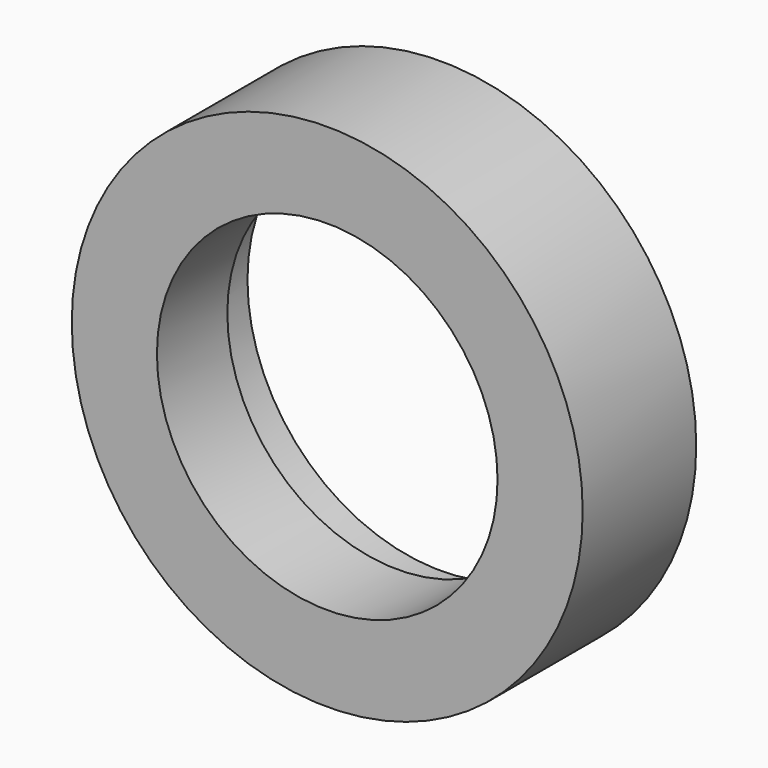
from build123d import *

# Parameters (mm, degrees)
F0_R     = 45
F0_R_2   = 30
F1_DEPTH = 25
F2_R     = 34.05
F3_DEPTH = 9.5
F5_R     = 1.75
F6_DEPTH = 25


with BuildPart() as f1:
    # F0 (on Front) → F1 (new body)
    with BuildSketch(Plane.XZ):
        Circle(F0_R)
        Circle(F0_R_2, mode=Mode.SUBTRACT)
    extrude(amount=F1_DEPTH)

    # F2 (on face) → F3 (cut)
    with BuildSketch(Plane(origin=(0, 0, 0), x_dir=(-1, 0, 0), z_dir=(0, 1, 0))):
        Circle(F2_R)
    extrude(amount=-F3_DEPTH, mode=Mode.SUBTRACT)

    # F5 (on offset) → F6 (cut)
    with BuildSketch(Plane.YZ.offset(-45)):
        with Locations((-6, 0)):
            Circle(F5_R)
    extrude(amount=F6_DEPTH, mode=Mode.SUBTRACT)


solid = f1.part
